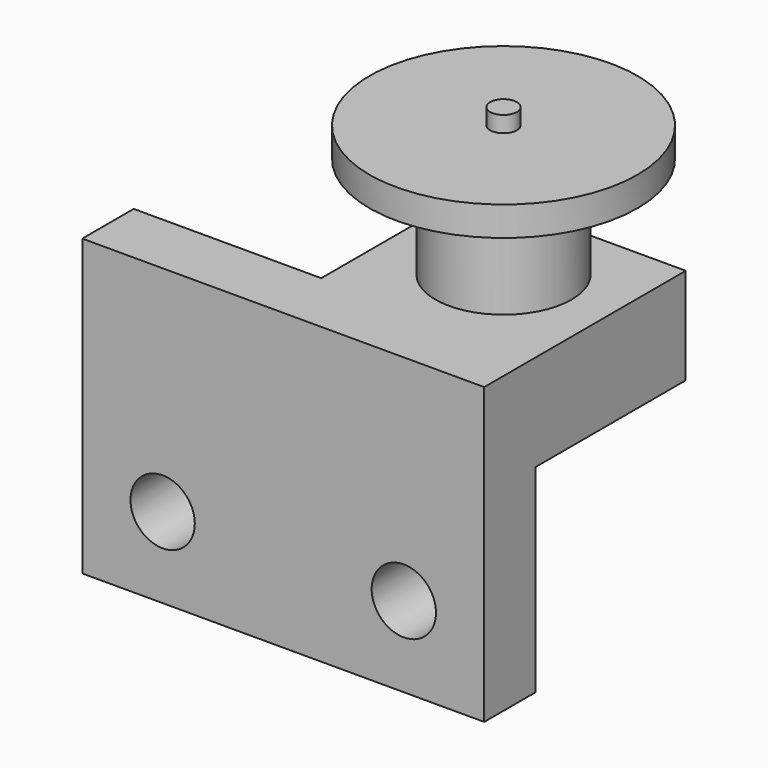
from build123d import *

# Parameters (mm, degrees)
F0_W      = 100
F0_H      = 35
F1_DEPTH  = 18
F3_D      = 12
F4_R      = 12.7
F5_DEPTH  = 19
F6_R      = 25
F6_R_2    = 12.7
F7_DEPTH  = 5.5
F8_R      = 2.5
F9_DEPTH  = 3
F10_W     = 100
F10_H     = 57
F10_H_2   = 18
F11_DEPTH = 12
F12_W     = 30
F12_H     = 35
F13_DEPTH = 25
F14_W     = 30
F14_H     = 75
F15_DEPTH = 25
F16_W     = 75
F16_H     = 55
F17_DEPTH = 12
F18_W     = 40
F18_H     = 20
F19_DEPTH = 25
F21_D     = 12


with BuildPart() as f1:
    # F0 (on Top) → F1 (new body)
    with BuildSketch(Plane.XY):
        Rectangle(F0_W, F0_H)
    extrude(amount=-F1_DEPTH)

    # F3 (through all)
    with Locations(Plane.XY):
        with Locations((-38, 0), (38, 0)):
            Hole(F3_D / 2)

    # F4 (on face) → F5 (join)
    with BuildSketch(Plane.XY):
        Circle(F4_R)
    extrude(amount=F5_DEPTH)

    # F6 (on face) → F7 (join)
    with BuildSketch(Plane.XY.offset(19)):
        Circle(F6_R)
        Circle(F6_R_2, mode=Mode.SUBTRACT)
        Circle(F6_R_2)
    extrude(amount=F7_DEPTH)

    # F8 (on face) → F9 (join)
    with BuildSketch(Plane.XY.offset(24.5)):
        Circle(F8_R)
    extrude(amount=F9_DEPTH)

    # F10 (on face) → F11 (join)
    with BuildSketch(Plane.XZ.offset(17.5)):
        with Locations((0, -46.5)):
            Rectangle(F10_W, F10_H)
        with Locations((0, -9)):
            Rectangle(F10_W, F10_H_2)
    extrude(amount=F11_DEPTH)

    # F12 (on face) → F13 (cut)
    with BuildSketch(Plane(origin=(0, 0, -18), x_dir=(1, 0, 0), z_dir=(0, 0, -1))):
        with Locations((35, 0)):
            Rectangle(F12_W, F12_H)
        with Locations((-35, 0)):
            Rectangle(F12_W, F12_H)
    extrude(amount=-F13_DEPTH, mode=Mode.SUBTRACT)

    # F14 (on face) → F15 (cut)
    with BuildSketch(Plane(origin=(0, -17.5, 0), x_dir=(-1, 0, 0), z_dir=(0, 1, 0))):
        with Locations((-35, -37.5)):
            Rectangle(F14_W, F14_H)
        with Locations((35, -37.5)):
            Rectangle(F14_W, F14_H)
    extrude(amount=-F15_DEPTH, mode=Mode.SUBTRACT)

    # F16 (on face) → F17 (join)
    with BuildSketch(Plane.XZ.offset(29.5)):
        with Locations((-17.5, -27.5)):
            Rectangle(F16_W, F16_H)
    extrude(amount=-F17_DEPTH)

    # F18 (on face) → F19 (cut)
    with BuildSketch(Plane.XZ.offset(29.5)):
        with Locations((0, -65)):
            Rectangle(F18_W, F18_H)
    extrude(amount=-F19_DEPTH, mode=Mode.SUBTRACT)

    # F21 (through all)
    with Locations(Plane(origin=(0, -17.5, 0), x_dir=(-1, 0, 0), z_dir=(0, 1, 0))):
        with Locations((-5, -40), (40, -40)):
            Hole(F21_D / 2)


solid = f1.part
